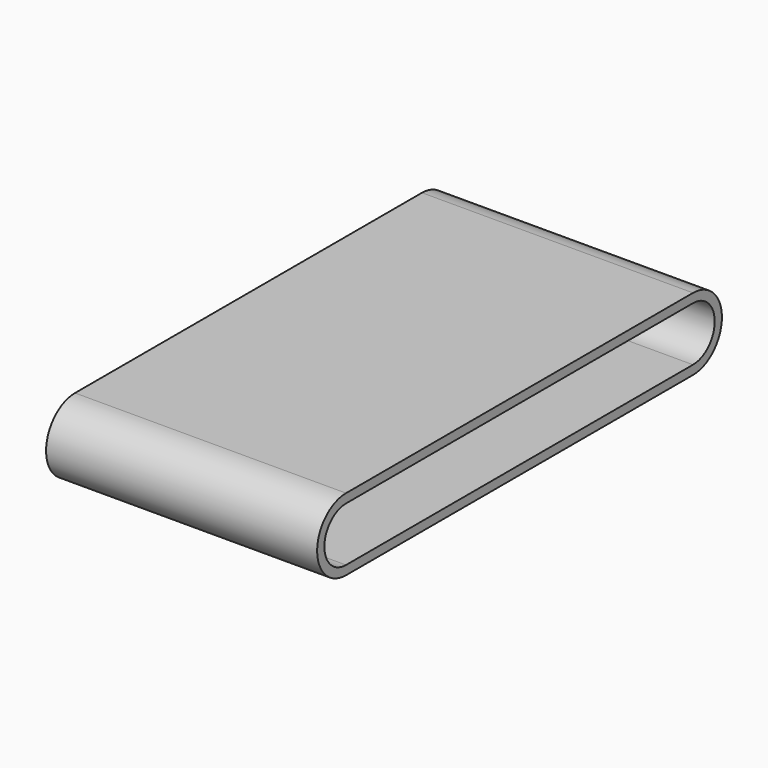
from build123d import *

# Parameters (mm, degrees)
F1_DEPTH = 762


with BuildPart() as f1:
    # F0 (on Right) → F1 (new body)
    with BuildSketch(Plane.YZ):
        with BuildLine():
            ThreePointArc((0, 76.2), (-76.2, 0), (0, -76.2))
            Line((0, -76.2), (1219.2, -76.2))
            ThreePointArc((1219.2, -76.2), (1295.4, 0), (1219.2, 76.2))
            Line((1219.2, 76.2), (0, 76.2))
        make_face()
        with BuildLine():
            ThreePointArc((0, 101.6), (-101.6, 0), (0, -101.6))
            Line((0, -101.6), (1219.2, -101.6))
            ThreePointArc((1219.2, -101.6), (1320.8, 0), (1219.2, 101.6))
            Line((1219.2, 101.6), (0, 101.6))
        make_face()
        with BuildLine():
            Line((1219.2, -76.2), (0, -76.2))
            ThreePointArc((0, -76.2), (-76.2, 0), (0, 76.2))
            Line((0, 76.2), (1219.2, 76.2))
            ThreePointArc((1219.2, 76.2), (1295.4, 0), (1219.2, -76.2))
        make_face(mode=Mode.SUBTRACT)
    extrude(amount=F1_DEPTH)


solid = f1.part
